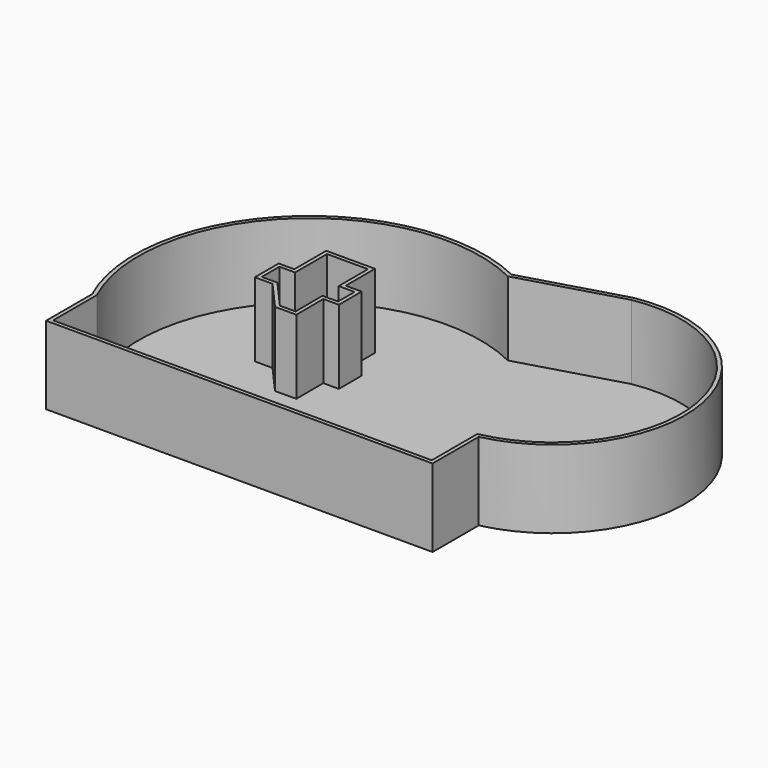
from build123d import *

# Parameters (mm, degrees)
F1_DEPTH = 50
F2_T     = -2.5


with BuildPart() as f1:
    # F0 (on Top) → F1 (new body)
    with BuildSketch(Plane.XY):
        with BuildLine():
            ThreePointArc((49.060916242, 80.7666611337), (-78.1512140744, 59.8120363605), (-101.6678459079, -66.9514853097))
            Line((-101.6678459079, -66.9514853097), (-101.6678459079, -103.9241496063))
            Line((-101.6678459079, -103.9241496063), (146.1859323948, -103.9241496063))
            Line((146.1859323948, -103.9241496063), (146.1859323948, -66.9514853097))
            ThreePointArc((146.1859323948, -66.9514853097), (210.5659380979, 32.5726496486), (112.5656791895, 99.2493909263))
            Line((112.5656791895, 99.2493909263), (49.060916242, 80.7666611337))
        make_face()
        Polygon((-20.3918665088, -18.0957990914), (-36.9947273911, 0.6663483047), (-46.9947273911, 0.6663483047), (-46.9947273911, 14.8120262139), (-36.9947273911, 14.8120262139), (-36.9947273911, 40.4454148785), (-10.7651253298, 40.4454148785), (-10.7090268836, 16.9306674714), (-0.5355780579, 16.9549379711), (-0.5039027498, 3.6776206944), (-10.5038742928, 3.6537640543), (-10.3919994277, -18.0442397964), align=None, mode=Mode.SUBTRACT)
    extrude(amount=F1_DEPTH)

    # F2
    f2_openings = [f1.faces().sort_by_distance(p)[0] for p in [
        (49.091744, -6.264169, 50),
    ]]
    offset(amount=F2_T, openings=f2_openings, kind=Kind.INTERSECTION)


solid = f1.part
